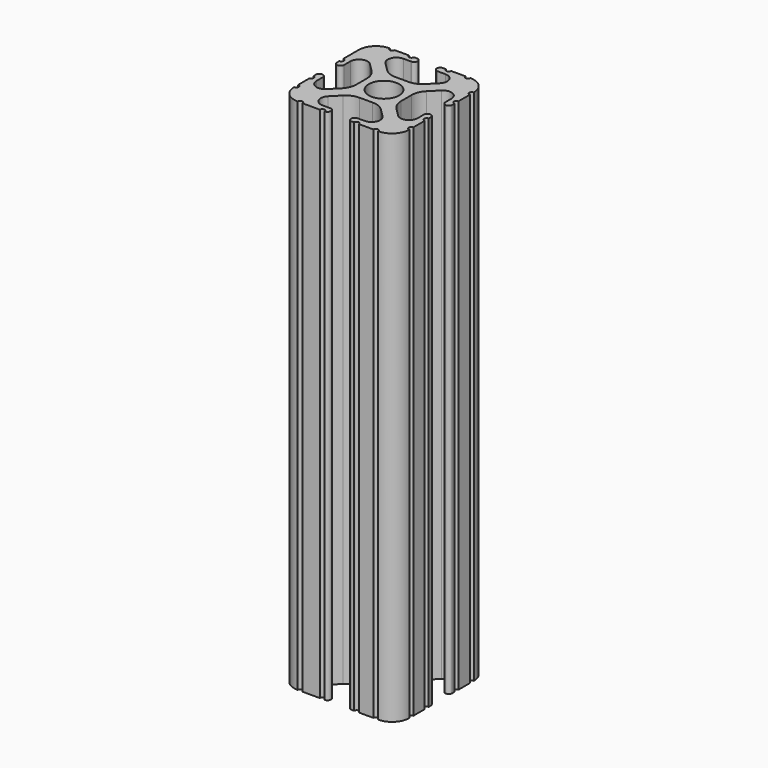
from build123d import *

# Parameters (mm, degrees)
F0_R     = 3.362501
F1_DEPTH = 114.3


with BuildPart() as f1:
    # F0 (on Top) → F1 (new body)
    with BuildSketch(Plane.XY):
        with BuildLine():
            ThreePointArc((-8.548576, 18.755238), (-9.784629, 17.929334), (-11.242653, 17.639315))
            Line((-11.242653, 17.639315), (-14.157347, 17.639315))
            ThreePointArc((-14.157347, 17.639315), (-15.615371, 17.929334), (-16.851424, 18.755238))
            Line((-16.851424, 18.755238), (-18.696905, 20.600719))
            ThreePointArc((-18.696905, 20.600719), (-19.109857, 22.67677), (-17.349867, 23.852758))
            Line((-17.349867, 23.852758), (-15.615371, 23.852758))
            Line((-15.615371, 23.852758), (-15.58302, 23.852758))
            ThreePointArc((-15.58302, 23.852758), (-14.825405, 24.626379), (-15.58302, 25.4))
            Line((-15.58302, 25.4), (-15.615371, 25.4))
            Line((-15.615371, 25.4), (-16.253341, 25.4))
            ThreePointArc((-16.253341, 25.4), (-16.801604, 24.858772), (-17.349867, 25.4))
            Line((-17.349867, 25.4), (-20.487482, 25.4))
            ThreePointArc((-20.487482, 25.4), (-21.038741, 24.848741), (-21.59, 25.4))
            ThreePointArc((-21.59, 25.4), (-24.284077, 24.284077), (-25.4, 21.59))
            Line((-25.4, 21.59), (-25.4, 20.504724))
            Line((-25.4, 20.504724), (-25.4, 17.349867))
            ThreePointArc((-25.4, 17.349867), (-24.844161, 16.802675), (-25.4, 16.255483))
            Line((-25.4, 16.255483), (-25.4, 15.615371))
            ThreePointArc((-25.4, 15.615371), (-24.626379, 14.859554), (-23.852758, 15.615371))
            Line((-23.852758, 15.615371), (-23.852758, 17.349867))
            ThreePointArc((-23.852758, 17.349867), (-22.67677, 19.109857), (-20.600719, 18.696905))
            Line((-20.600719, 18.696905), (-18.755238, 16.851424))
            ThreePointArc((-18.755238, 16.851424), (-17.929334, 15.615371), (-17.639315, 14.157347))
            Line((-17.639315, 14.157347), (-17.639315, 11.242653))
            ThreePointArc((-17.639315, 11.242653), (-17.929334, 9.784629), (-18.755238, 8.548576))
            Line((-18.755238, 8.548576), (-20.600719, 6.703095))
            ThreePointArc((-20.600719, 6.703095), (-22.67677, 6.290143), (-23.852758, 8.050133))
            Line((-23.852758, 8.050133), (-23.852758, 9.784629))
            ThreePointArc((-23.852758, 9.784629), (-24.626379, 10.55825), (-25.4, 9.784629))
            Line((-25.4, 9.784629), (-25.4, 9.149239))
            ThreePointArc((-25.4, 9.149239), (-24.899374, 8.599686), (-25.4, 8.050133))
            Line((-25.4, 8.050133), (-25.4, 4.904538))
            ThreePointArc((-25.4, 4.904538), (-24.846216, 4.357269), (-25.4, 3.81))
            ThreePointArc((-25.4, 3.81), (-24.284077, 1.115923), (-21.59, 0))
            ThreePointArc((-21.59, 0), (-21.040817, 0.554885), (-20.491634, 0))
            Line((-20.491634, 0), (-16.708169, 0))
            ThreePointArc((-16.708169, 0), (-16.16177, 0.540135), (-15.615371, 0))
            ThreePointArc((-15.615371, 0), (-14.854184, 0.7747), (-15.615371, 1.5494))
            Line((-15.615371, 1.5494), (-17.347709, 1.5494))
            ThreePointArc((-17.347709, 1.5494), (-19.107699, 2.725388), (-18.694747, 4.801438))
            Line((-18.694747, 4.801438), (-16.851424, 6.644762))
            ThreePointArc((-16.851424, 6.644762), (-15.615371, 7.470666), (-14.157347, 7.760685))
            Line((-14.157347, 7.760685), (-11.242653, 7.760685))
            ThreePointArc((-11.242653, 7.760685), (-9.784629, 7.470666), (-8.548576, 6.644762))
            Line((-8.548576, 6.644762), (-6.705253, 4.801438))
            ThreePointArc((-6.705253, 4.801438), (-6.292301, 2.725388), (-8.052291, 1.5494))
            Line((-8.052291, 1.5494), (-9.784629, 1.5494))
            ThreePointArc((-9.784629, 1.5494), (-10.401836, 0.7747), (-9.784629, 0))
            Line((-9.784629, 0), (-9.152868, 0))
            ThreePointArc((-9.152868, 0), (-8.602579, 0.545262), (-8.052291, 0))
            Line((-8.052291, 0), (-4.898866, 0))
            ThreePointArc((-4.898866, 0), (-4.354433, 0.544433), (-3.81, 0))
            ThreePointArc((-3.81, 0), (-1.115923, 1.115923), (0, 3.81))
            ThreePointArc((0, 3.81), (-0.53938, 4.3561), (0, 4.9022))
            Line((0, 4.9022), (0, 8.052291))
            ThreePointArc((0, 8.052291), (-0.543517, 8.60166), (0, 9.151029))
            Line((0, 9.151029), (0, 9.784629))
            ThreePointArc((0, 9.784629), (-0.7747, 10.504691), (-1.5494, 9.784629))
            Line((-1.5494, 9.784629), (-1.5494, 8.052291))
            ThreePointArc((-1.5494, 8.052291), (-2.725388, 6.292301), (-4.801438, 6.705253))
            Line((-4.801438, 6.705253), (-6.644762, 8.548576))
            ThreePointArc((-6.644762, 8.548576), (-7.470666, 9.784629), (-7.760685, 11.242653))
            Line((-7.760685, 11.242653), (-7.760685, 14.157347))
            ThreePointArc((-7.760685, 14.157347), (-7.470666, 15.615371), (-6.644762, 16.851424))
            Line((-6.644762, 16.851424), (-4.801438, 18.694747))
            ThreePointArc((-4.801438, 18.694747), (-2.725388, 19.107699), (-1.5494, 17.347709))
            Line((-1.5494, 17.347709), (-1.5494, 15.615371))
            ThreePointArc((-1.5494, 15.615371), (-0.7747, 14.879405), (0, 15.615371))
            Line((0, 15.615371), (0, 16.255509))
            ThreePointArc((0, 16.255509), (-0.5461, 16.801609), (0, 17.347709))
            Line((0, 17.347709), (0, 20.495165))
            ThreePointArc((0, 20.495165), (-0.551056, 21.042583), (0, 21.59))
            ThreePointArc((0, 21.59), (-1.115923, 24.284077), (-3.81, 25.4))
            ThreePointArc((-3.81, 25.4), (-4.365303, 24.903619), (-4.920606, 25.4))
            Line((-4.920606, 25.4), (-8.050133, 25.4))
            ThreePointArc((-8.050133, 25.4), (-8.596365, 24.859433), (-9.142596, 25.4))
            Line((-9.142596, 25.4), (-9.784629, 25.4))
            Line((-9.784629, 25.4), (-9.856203, 25.4))
            ThreePointArc((-9.856203, 25.4), (-10.594864, 24.626379), (-9.856203, 23.852758))
            Line((-9.856203, 23.852758), (-9.784629, 23.852758))
            Line((-9.784629, 23.852758), (-8.050133, 23.852758))
            ThreePointArc((-8.050133, 23.852758), (-6.290143, 22.67677), (-6.703095, 20.600719))
            Line((-6.703095, 20.600719), (-8.548576, 18.755238))
        make_face()
        with Locations((-12.7, 12.7)):
            Circle(F0_R, mode=Mode.SUBTRACT)
        with BuildLine():
            ThreePointArc((-9.856203, 23.852758), (-9.820416, 23.851931), (-9.784629, 23.852758))
            Line((-9.784629, 23.852758), (-9.856203, 23.852758))
        make_face()
        with BuildLine():
            Line((-15.58302, 23.852758), (-15.615371, 23.852758))
            ThreePointArc((-15.615371, 23.852758), (-15.599195, 23.852589), (-15.58302, 23.852758))
        make_face()
        with BuildLine():
            ThreePointArc((-9.784629, 25.4), (-9.820416, 25.400827), (-9.856203, 25.4))
            Line((-9.856203, 25.4), (-9.784629, 25.4))
        make_face()
        with BuildLine():
            Line((-15.615371, 25.4), (-15.58302, 25.4))
            ThreePointArc((-15.58302, 25.4), (-15.599195, 25.400169), (-15.615371, 25.4))
        make_face()
    extrude(amount=F1_DEPTH)


solid = f1.part
